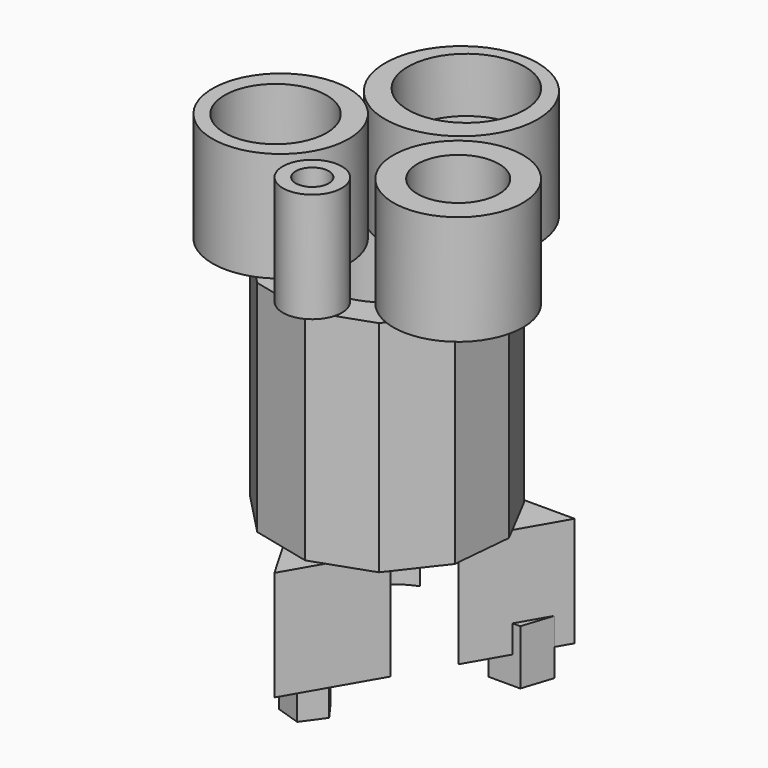
from build123d import *

# Parameters (mm, degrees)
F1_DEPTH  = 50
F3_DEPTH  = 100
F4_R      = 35.61174
F5_DEPTH  = 150.001
F6_R      = 34.763964
F6_R_2    = 13.459026
F6_R_3    = 29.528725
F6_R_4    = 31.072571
F7_DEPTH  = 50
F9_DEPTH  = 12.5
F10_R     = 7.524559
F11_DEPTH = 25
F12_R     = 18.555178
F12_R_2   = 23.242661
F12_R_3   = 26.64625
F13_DEPTH = 25


with BuildPart() as f1:
    # F0 (on Top) → F1 (new body)
    with BuildSketch(Plane.XY):
        Polygon((57.372367, 33.123951), (-57.372367, 33.123951), (0, -66.247903), align=None)
    extrude(amount=F1_DEPTH)

    # F2 (on face) → F3 (join)
    with BuildSketch(Plane.XY.offset(50)):
        Polygon((35.541334, 31.556312), (11.41747, 45.344661), (-16.331361, 43.901813), (-38.895099, 27.685861), (-49.109919, 1.845256), (-43.732686, -25.415792), (-24.470635, -45.442094), (2.560671, -51.87544), (28.778981, -42.673288), (45.860168, -20.757257), (48.381076, 6.914469), align=None)
    extrude(amount=F3_DEPTH)

    # F4 (on face) → F5 (cut, through all)
    with BuildSketch(Plane.XY.offset(150)):
        Circle(F4_R)
    extrude(amount=-F5_DEPTH, mode=Mode.SUBTRACT)

    # F6 (on face) → F7 (join)
    with BuildSketch(Plane.XY.offset(150)):
        with Locations((0, 40.323675)):
            Circle(F6_R)
        with Locations((0, -44.642087)):
            Circle(F6_R_2)
        with Locations((41.376553, -13.222456)):
            Circle(F6_R_3)
        with Locations((-39.38517, -13.44372)):
            Circle(F6_R_4)
    extrude(amount=F7_DEPTH)

    # F8 (on face) → F9 (join, symmetric)
    with BuildSketch(Plane(origin=(0, 0, 0), x_dir=(1, 0, 0), z_dir=(0, 0, -1))):
        Polygon((-43.621281, -9.306372), (-51.77561, -23.430084), (-40.862988, -35.549779), (-25.964287, -28.91645), (-27.669006, -12.697132), align=None)
        Polygon((-8.124595, 53.485743), (-8.124595, 41.680016), (3.103319, 38.031846), (10.042551, 47.58288), (3.103319, 57.133913), align=None)
        Polygon((49.025573, -12.575652), (34.519002, -12.575652), (30.036225, -26.37222), (41.772287, -34.898969), (53.50835, -26.37222), align=None)
    extrude(amount=F9_DEPTH, both=True)

    # F10 (on face) → F11 (cut)
    with BuildSketch(Plane.XY.offset(200)):
        with Locations((0, -44.642087)):
            Circle(F10_R)
    extrude(amount=-F11_DEPTH, mode=Mode.SUBTRACT)

    # F12 (on face) → F13 (cut)
    with BuildSketch(Plane.XY.offset(200)):
        with Locations((41.376553, -13.222456)):
            Circle(F12_R)
        with Locations((-40.637251, -14.778094)):
            Circle(F12_R_2)
        with Locations((0, 43.16001)):
            Circle(F12_R_3)
    extrude(amount=-F13_DEPTH, mode=Mode.SUBTRACT)


solid = f1.part
